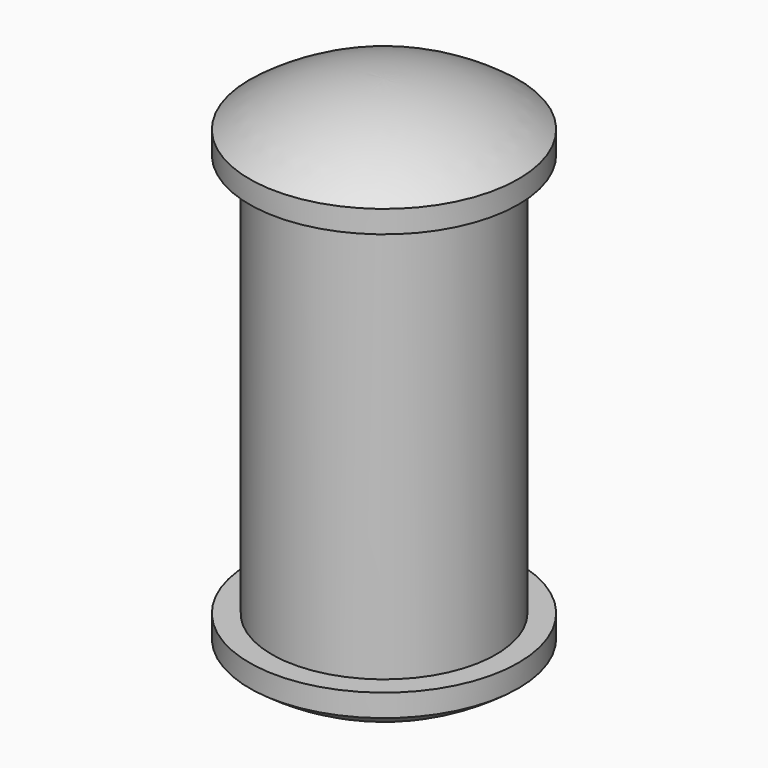
from build123d import *


with BuildPart() as f1:
    # F0 (on Front) → F1 (revolve)
    with BuildSketch(Plane.XZ):
        Polygon((-2.5, 0), (0, 0), (0, 5), (-3, 5), (-3, 4.5), (-2.5, 4.5), align=None)
        with BuildLine():
            Line((-3, 5), (0, 5))
            Line((0, 5), (0, 6))
            ThreePointArc((0, 6), (-1.581139, 5.743416), (-3, 5))
        make_face()
    revolve(axis=Axis((0, 0, 2.5), (0, 0, 1)))

    # F2: F1 across face


with BuildPart() as f1_1:
    add(f1.part)
    add(f1.part.mirror(Plane(origin=(0, 0, 0), x_dir=(1, 0, 0), z_dir=(0, 0, -1))))


solid = f1_1.part
